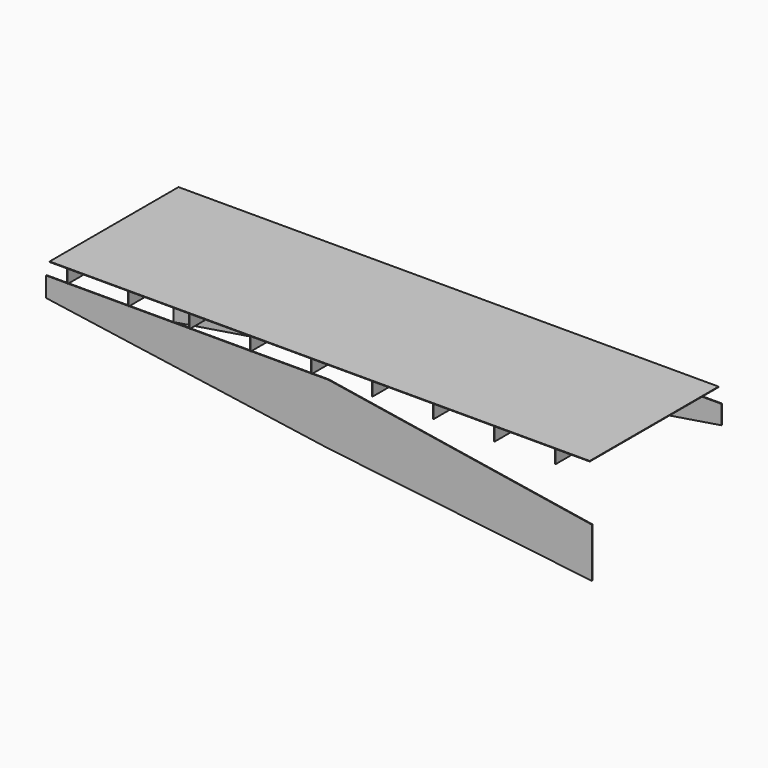
from build123d import *

# Parameters (mm, degrees)
F1_DEPTH = 3
F4_DEPTH = 3
F6_W     = 3
F6_H     = 50
F7_DEPTH = 305
F8_W     = 2036.6446971893
F8_H     = 607.4184775352
F9_DEPTH = 2


with BuildPart() as f1:
    # F0 (on Front) → F1 (new body)
    with BuildSketch(Plane.XZ):
        Polygon((1000, 0), (0, 0), (-1064.7249259854, -220.0647401601), (-1064.7249259854, -400.0647401601), (1000, -71.1974114174), align=None)
    extrude(amount=F1_DEPTH)

    # F6 (on offset) → F7, piece 2 (join, symmetric)
    with BuildSketch(Plane.XZ.offset(303)):
        with Locations((167.9982813472, 25)):
            Rectangle(F6_W, F6_H)
        with Locations((397.9982813472, 25)):
            Rectangle(F6_W, F6_H)
        with Locations((627.9982813472, 25)):
            Rectangle(F6_W, F6_H)
        with Locations((857.9982813472, 25)):
            Rectangle(F6_W, F6_H)
    extrude(amount=F7_DEPTH, both=True)



with BuildPart() as f4:
    # F3 (on offset) → F4 (new body)
    with BuildSketch(Plane.XZ.offset(603)):
        Polygon((994.6181178093, -157.9961776733), (0, 0), (-1063.7367963791, 0), (-1063.7367963791, -74.729397893), (0, -227.9402762651), (994.6181178093, -344.5137739182), align=None)
    extrude(amount=F4_DEPTH)

    # F6 (on offset) → F7 (join, symmetric)
    with BuildSketch(Plane.XZ.offset(303)):
        with Locations((-982.0017186528, 25)):
            Rectangle(F6_W, F6_H)
        with Locations((-752.0017186528, 25)):
            Rectangle(F6_W, F6_H)
        with Locations((-522.0017186528, 25)):
            Rectangle(F6_W, F6_H)
        with Locations((-292.0017186528, 25)):
            Rectangle(F6_W, F6_H)
        with Locations((-62.0017186528, 25)):
            Rectangle(F6_W, F6_H)
    extrude(amount=F7_DEPTH, both=True)


with BuildPart() as f1_1:
    add(f1.part)

    add(f4.part)  # F9 merges F4
    # F8 (on face) → F9 (join)
    with BuildSketch(Plane.XY.offset(50)):
        with Locations((-30.8758020401, -303.7092387676)):
            Rectangle(F8_W, F8_H)
    extrude(amount=F9_DEPTH)


solid = f1_1.part
